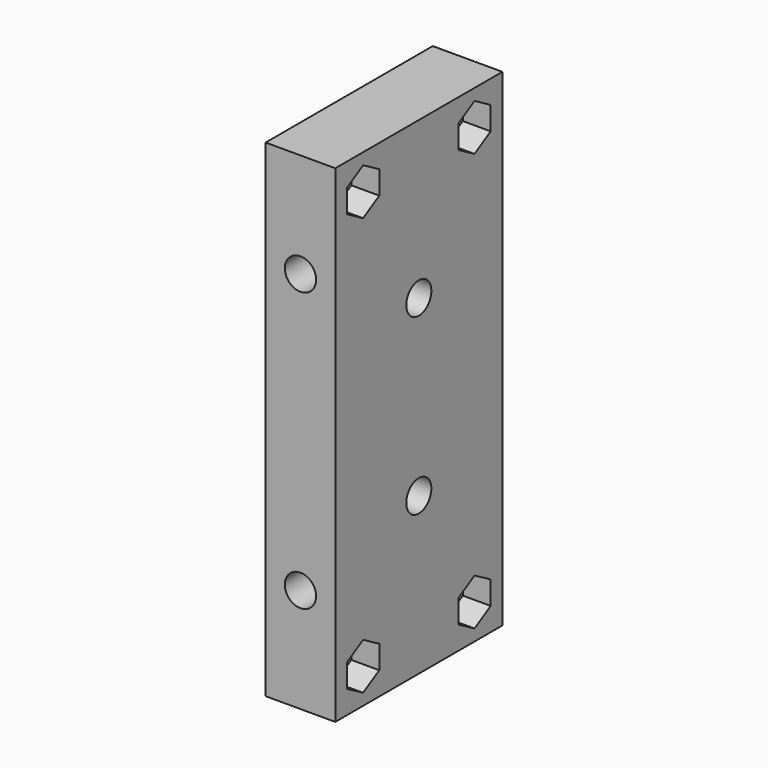
from build123d import *

# Parameters (mm, degrees)
SKETCH086_W     = 10
SKETCH086_H     = 70
SKETCH086_R     = 2.25
PAD058_DEPTH    = 15
SKETCH087_R     = 2.25
SKETCH087_R_2   = 1.75
POCKET021_DEPTH = 25
POCKET065_DEPTH = 3.5
POCKET066_DEPTH = 4


with BuildPart() as part:
    # Sketch086 → Pad058 (new body, symmetric)
    with BuildSketch(Plane.XZ):
        with Locations((-0.018685, 5)):
            Rectangle(SKETCH086_W, SKETCH086_H)
        with Locations((-0.018685, 25)):
            Circle(SKETCH086_R, mode=Mode.SUBTRACT)
        with Locations((-0.018685, -15)):
            Circle(SKETCH086_R, mode=Mode.SUBTRACT)
    extrude(amount=PAD058_DEPTH, both=True)

    # Sketch087 (on Face4 of Pad058) → Pocket021 (cut)
    with BuildSketch(Plane(origin=(-5.018685, 0, 0), x_dir=(0, 0, -1), z_dir=(-1, 0, 0))):
        with Locations((-17.5, 0)):
            Circle(SKETCH087_R)
        with Locations((7.5, 0)):
            Circle(SKETCH087_R)
        with Locations((-35, 10)):
            Circle(SKETCH087_R_2)
        with Locations((-35, -10)):
            Circle(SKETCH087_R_2)
        with Locations((25, 10)):
            Circle(SKETCH087_R_2)
        with Locations((25, -10)):
            Circle(SKETCH087_R_2)
    extrude(amount=-POCKET021_DEPTH, mode=Mode.SUBTRACT)

    # Sketch261 (on Face2 of Pocket021) → Pocket065 (cut)
    with BuildSketch(Plane(origin=(-5.018685, 0, 0), x_dir=(0, 0, -1), z_dir=(-1, 0, 0))):
        Polygon((-15.363804, 3.7), (-19.636196, 3.7), (-21.772392, 0), (-19.636196, -3.7), (-15.363804, -3.7), (-13.227608, 0), align=None)
        Polygon((9.636196, 3.7), (5.363804, 3.7), (3.227608, 0), (5.363804, -3.7), (9.636196, -3.7), (11.772392, 0), align=None)
    extrude(amount=-POCKET065_DEPTH, mode=Mode.SUBTRACT)

    # Sketch262 (on Face3 of Pocket065) → Pocket066 (cut)
    with BuildSketch(Plane(origin=(4.981315, 0, 0), x_dir=(0, 0, 1), z_dir=(1, 0, 0))):
        Polygon((36.674316, 12.9), (33.325684, 12.9), (31.651368, 10), (33.325684, 7.1), (36.674316, 7.1), (38.348632, 10), align=None)
        Polygon((36.674316, -7.1), (33.325684, -7.1), (31.651368, -10), (33.325684, -12.9), (36.674316, -12.9), (38.348632, -10), align=None)
        Polygon((-23.325684, -7.1), (-26.674316, -7.1), (-28.348632, -10), (-26.674316, -12.9), (-23.325684, -12.9), (-21.651368, -10), align=None)
        Polygon((-21.651368, 10), (-23.325684, 12.9), (-26.674316, 12.9), (-28.348632, 10), (-26.674316, 7.1), (-23.325684, 7.1), align=None)
    extrude(amount=-POCKET066_DEPTH, mode=Mode.SUBTRACT)


with BuildPart() as part_1:
    # Body043 placement: moved
    add(part.part.moved(Location((-35, 0, 90))))


solid = part_1.part
